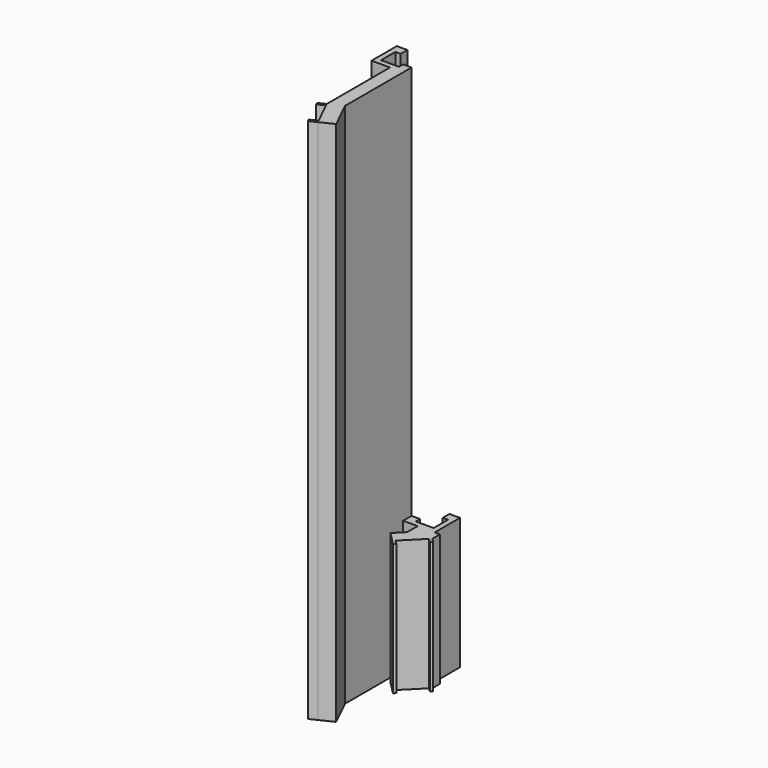
from build123d import *

# Parameters (mm, degrees)
F2_DEPTH  = 200
F3_DEPTH  = 200.001
F4_W      = 1
F4_H      = 200
F5_DEPTH  = 3
F7_DEPTH  = 50
F8_DEPTH  = 200.001
F9_W      = 1
F9_H      = 50
F10_DEPTH = 2
F11_DEPTH = 0.2
F12_DEPTH = 0.2
F13_DEPTH = 0.2


with BuildPart() as f2:
    # F1 (on Top) → F2 (new body)
    with BuildSketch(Plane.XY):
        Polygon((0, -39.5735367915), (0, 0), (-12, 0), (-12, -12), (-5, -12), (-5, -42), (0.2391641397, -52.7958862127), (5.2391641397, -50.3694230041), align=None)
    extrude(amount=F2_DEPTH)

    # F0 (on Top) → F3 (cut, through all)
    with BuildSketch(Plane.XY):
        Polygon((-10, 10), (-10, 3), (-8, 3), (-8, -3), (-10, -3), (-10, -10), (-3, -10), (-3, -8), (3, -8), (3, -10), (10, -10), (10, -3), (8, -3), (8, 3), (10, 3), (10, 10), (3, 10), (3, 8), (-3, 8), (-3, 10), align=None)
    extrude(amount=F3_DEPTH, mode=Mode.SUBTRACT)

    # F4 (on face) → F5 (join)
    with BuildSketch(Plane(origin=(-20.5439960519, -9.9698501152, 0), x_dir=(0.4365970116, -0.8996571844, 0), z_dir=(-0.8996571844, -0.4365970116, 0))):
        with Locations((36.1026166861, 100)):
            Rectangle(F4_W, F4_H)
        with Locations((47.1026166861, 100)):
            Rectangle(F4_W, F4_H)
    extrude(amount=F5_DEPTH)

    # F11 (add): a face of the model
    f11_faces = [f2.faces().sort_by_distance(p)[0] for p in [
        (-9, -3, 100),
    ]]
    extrude(f11_faces, amount=F11_DEPTH)

    # F13 (add): a face of the model
    f13_faces = [f2.faces().sort_by_distance(p)[0] for p in [
        (-3, -9, 100),
    ]]
    extrude(f13_faces, amount=F13_DEPTH)


with BuildPart() as f7:
    # F6 (on Top) → F7 (new body)
    with BuildSketch(Plane.XY):
        Polygon((12, 0), (0, 0), (0, -12), (5.5147186258, -12), (5.5147186258, -17), (1.9791847198, -20.5355339059), (5.5147186258, -24.0710678119), (14, -15.5857864376), (14, -12), (12, -12), align=None)
    extrude(amount=F7_DEPTH)

    # F0 (on Top) → F8 (cut, through all)
    with BuildSketch(Plane.XY):
        Polygon((-10, 10), (-10, 3), (-8, 3), (-8, -3), (-10, -3), (-10, -10), (-3, -10), (-3, -8), (3, -8), (3, -10), (10, -10), (10, -3), (8, -3), (8, 3), (10, 3), (10, 10), (3, 10), (3, 8), (-3, 8), (-3, 10), align=None)
    extrude(amount=F8_DEPTH, mode=Mode.SUBTRACT)

    # F9 (on face) → F10 (join)
    with BuildSketch(Plane(origin=(14.7928932188, -14.7928932188, 0), x_dir=(0.7071067812, 0.7071067812, 0), z_dir=(0.7071067812, -0.7071067812, 0))):
        with Locations((-12.6213203436, 25)):
            Rectangle(F9_W, F9_H)
        with Locations((-1.6213203436, 25)):
            Rectangle(F9_W, F9_H)
    extrude(amount=F10_DEPTH)

    # F11#2 (add): a face of the model
    f11_2_faces = [f7.faces().sort_by_distance(p)[0] for p in [
        (9, -3, 25),
    ]]
    extrude(f11_2_faces, amount=F11_DEPTH)

    # F12 (add): a face of the model
    f12_faces = [f7.faces().sort_by_distance(p)[0] for p in [
        (3, -9, 25),
    ]]
    extrude(f12_faces, amount=F12_DEPTH)


solid = Compound([f2.part, f7.part])
